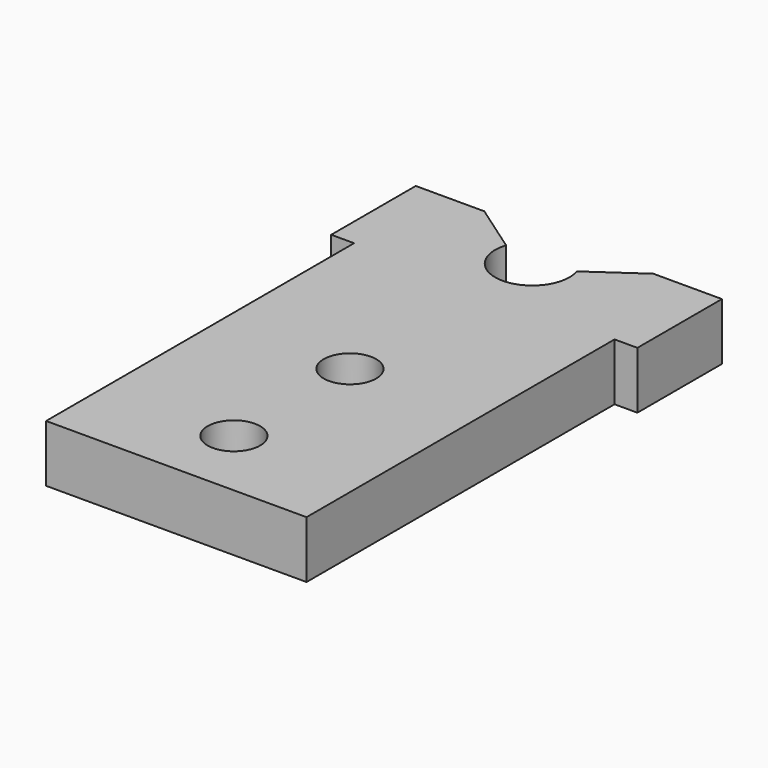
from build123d import *

# Parameters (mm, degrees)
F0_R     = 2.3
F1_DEPTH = 5


with BuildPart() as f1:
    # F0 (on Top) → F1 (new body)
    with BuildSketch(Plane.XY):
        with BuildLine():
            Line((4, 42.95), (0, 42.95))
            Line((0, 42.95), (-2, 42.95))
            Line((-2, 42.95), (-2, 33.7))
            Line((-2, 33.7), (0, 33.7))
            Line((0, 33.7), (0, 0))
            Line((0, 0), (22.8, 0))
            Line((22.8, 0), (22.8, 33.7))
            Line((22.8, 33.7), (24.8, 33.7))
            Line((24.8, 33.7), (24.8, 42.95))
            Line((24.8, 42.95), (22.8, 42.95))
            Line((22.8, 42.95), (18.8, 42.95))
            Line((18.8, 42.95), (14.492329, 39.95))
            ThreePointArc((14.492329, 39.95), (11.4, 35.7), (8.307671, 39.95))
            Line((8.307671, 39.95), (4, 42.95))
        make_face()
        with Locations((11.4, 6.3)):
            Circle(F0_R, mode=Mode.SUBTRACT)
        with Locations((11.4, 19)):
            Circle(F0_R, mode=Mode.SUBTRACT)
    extrude(amount=F1_DEPTH)


solid = f1.part
